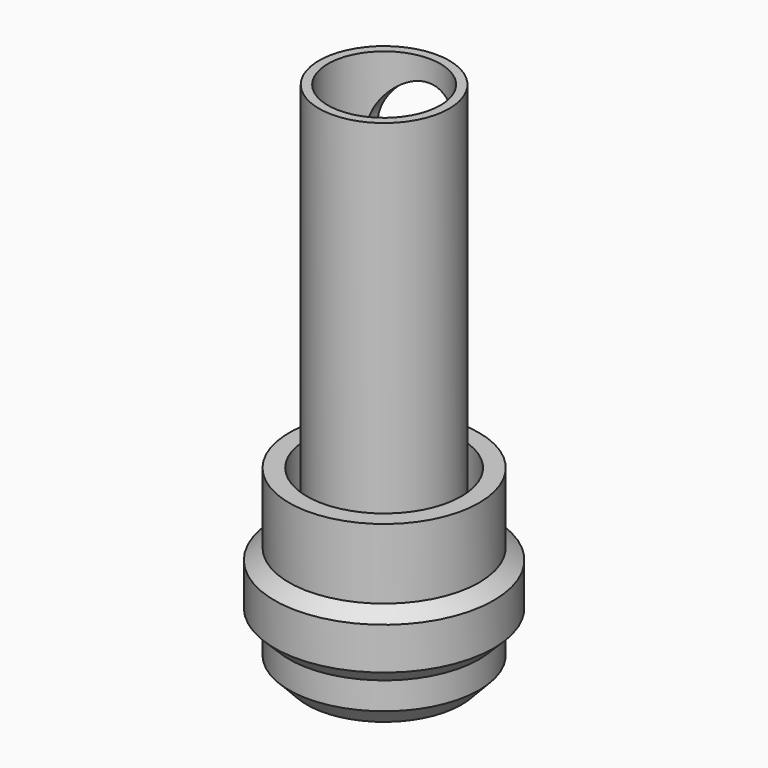
from build123d import *

# Parameters (mm, degrees)
F2_R     = 11
F3_DEPTH = 11
F4_R     = 11
F4_W     = 12
F4_H     = 2.5
F5_DEPTH = 7
F6_R     = 11
F6_R_2   = 9.5
F7_DEPTH = 70
F8_R     = 7.5
F8_W     = 12.1
F8_H     = 17.75
F9_DEPTH = 25


with BuildPart() as f1:
    # F0 (on Front) → F1 (revolve)
    with BuildSketch(Plane.XZ):
        Polygon((0, 5), (0, 0), (13.05, 0), (16.05, 3.1490712427), (16.05, 7.7377450652), (16.05, 19.1541668028), (16.05, 31), (13.05, 31), (13.05, 5), align=None)
        Polygon((16.05, 19.1541668028), (16.05, 7.7377450652), (18.5133777559, 10.1841213182), (18.5133777559, 17.2902606428), align=None)
    revolve(axis=Axis((0, 0, 2.5), (0, 0, -1)))


with BuildPart() as f3:
    # F2 (on Top) → F3 (new body)
    with BuildSketch(Plane.XY):
        Circle(F2_R)
        with BuildLine():
            ThreePointArc((-8.25, 1.75), (-7.1516504294, 4.4016504294), (-4.5, 5.5))
            Line((-4.5, 5.5), (4.5, 5.5))
            ThreePointArc((4.5, 5.5), (7.1516504294, 4.4016504294), (8.25, 1.75))
            ThreePointArc((8.25, 1.75), (7.1516504294, -0.9016504294), (4.5, -2))
            Line((4.5, -2), (-4.5, -2))
            ThreePointArc((-4.5, -2), (-7.1516504294, -0.9016504294), (-8.25, 1.75))
        make_face(mode=Mode.SUBTRACT)
    extrude(amount=F3_DEPTH)

    # F4 (on face) → F5 (join)
    with BuildSketch(Plane.XY.offset(11)):
        Circle(F4_R)
        with Locations((0, -5.7151356898)):
            Rectangle(F4_W, F4_H, mode=Mode.SUBTRACT)
        with BuildLine():
            ThreePointArc((4.5, 5.5), (8.25, 1.75), (4.5, -2))
            Line((4.5, -2), (-4.5, -2))
            ThreePointArc((-4.5, -2), (-8.25, 1.75), (-4.5, 5.5))
            Line((-4.5, 5.5), (4.5, 5.5))
        make_face(mode=Mode.SUBTRACT)
    extrude(amount=F5_DEPTH)

    # F6 (on face) → F7 (join)
    with BuildSketch(Plane.XY.offset(18)):
        Circle(F6_R)
        Circle(F6_R_2, mode=Mode.SUBTRACT)
    extrude(amount=F7_DEPTH)

    # F8 (on Front) → F9 (cut)
    with BuildSketch(Plane.XZ):
        with Locations((0, 76.8774747849)):
            Circle(F8_R)
        with Locations((0, 57.0436033309)):
            Rectangle(F8_W, F8_H)
    extrude(amount=-F9_DEPTH, mode=Mode.SUBTRACT)


solid = Compound([f1.part, f3.part])
